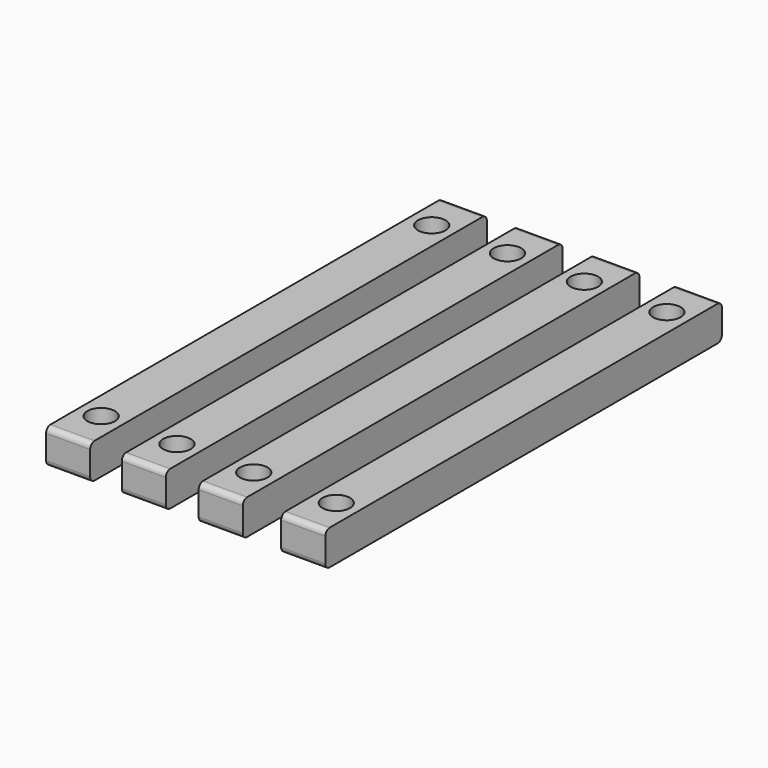
from build123d import *

# Parameters (mm, degrees)
F0_W     = 8
F0_H     = 90
F0_R     = 2.5
F1_DEPTH = 6.35
F2_R     = 1


with BuildPart() as f1:
    # F0 (on Top) → F1 (new body)
    with BuildSketch(Plane.XY):
        with Locations((-5.765387, 5.625)):
            Rectangle(F0_W, F0_H)
        with Locations((-5.763987, -31.875)):
            Circle(F0_R, mode=Mode.SUBTRACT)
        with Locations((-5.763987, 43.125)):
            Circle(F0_R, mode=Mode.SUBTRACT)
        with Locations((8.194857, 5.625)):
            Rectangle(F0_W, F0_H)
        with Locations((8.196257, -31.875)):
            Circle(F0_R, mode=Mode.SUBTRACT)
        with Locations((8.196257, 43.125)):
            Circle(F0_R, mode=Mode.SUBTRACT)
        with Locations((-19.504724, 5.625)):
            Rectangle(F0_W, F0_H)
        with Locations((-19.503324, -31.875)):
            Circle(F0_R, mode=Mode.SUBTRACT)
        with Locations((-19.503324, 43.125)):
            Circle(F0_R, mode=Mode.SUBTRACT)
        with Locations((23.16935, 5.625)):
            Rectangle(F0_W, F0_H)
        with Locations((23.17075, -31.875)):
            Circle(F0_R, mode=Mode.SUBTRACT)
        with Locations((23.17075, 43.125)):
            Circle(F0_R, mode=Mode.SUBTRACT)
    extrude(amount=F1_DEPTH)

    # F2
    f2_edges = [f1.edges().sort_by_distance(p)[0] for p in [
        (-19.504724, 50.625, 6.35),
        (-5.765387, 50.625, 6.35),
        (8.194857, 50.625, 6.35),
        (23.16935, 50.625, 6.35),
        (23.16935, -39.375, 6.35),
        (8.194857, -39.375, 6.35),
        (-5.765387, -39.375, 6.35),
        (-19.504724, -39.375, 6.35),
        (-19.504724, -39.375, 0),
        (-5.765387, -39.375, 0),
        (8.194857, -39.375, 0),
        (23.16935, -39.375, 0),
        (-19.504724, 50.625, 0),
        (-5.765387, 50.625, 0),
        (8.194857, 50.625, 0),
        (23.16935, 50.625, 0),
    ]]
    fillet(f2_edges, radius=F2_R)


solid = f1.part
